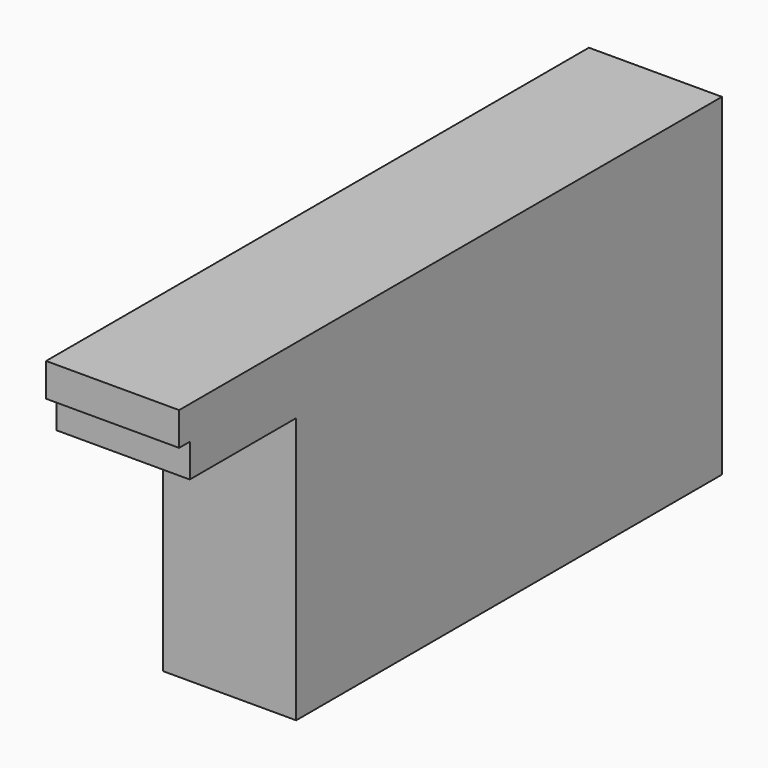
from build123d import *

# Parameters (mm, degrees)
F1_DEPTH = 500
F2_W     = 1000
F2_H     = 4000
F3_DEPTH = 2000
F4_W     = 1000
F4_H     = 250
F5_DEPTH = 100


with BuildPart() as f1:
    # F0 (on Top) → F1 (new body)
    with BuildSketch(Plane.XY):
        Polygon((-500, 0), (0, 0), (500, 0), (500, 5000), (0, 5000), (-500, 5000), align=None)
    extrude(amount=F1_DEPTH)

    # F2 (on face) → F3 (join)
    with BuildSketch(Plane(origin=(0, 0, 0), x_dir=(1, 0, 0), z_dir=(0, 0, -1))):
        with Locations((0, -3000)):
            Rectangle(F2_W, F2_H)
    extrude(amount=F3_DEPTH)

    # F4 (on face) → F5 (join)
    with BuildSketch(Plane.XZ):
        with Locations((0, 375)):
            Rectangle(F4_W, F4_H)
    extrude(amount=F5_DEPTH)


solid = f1.part
